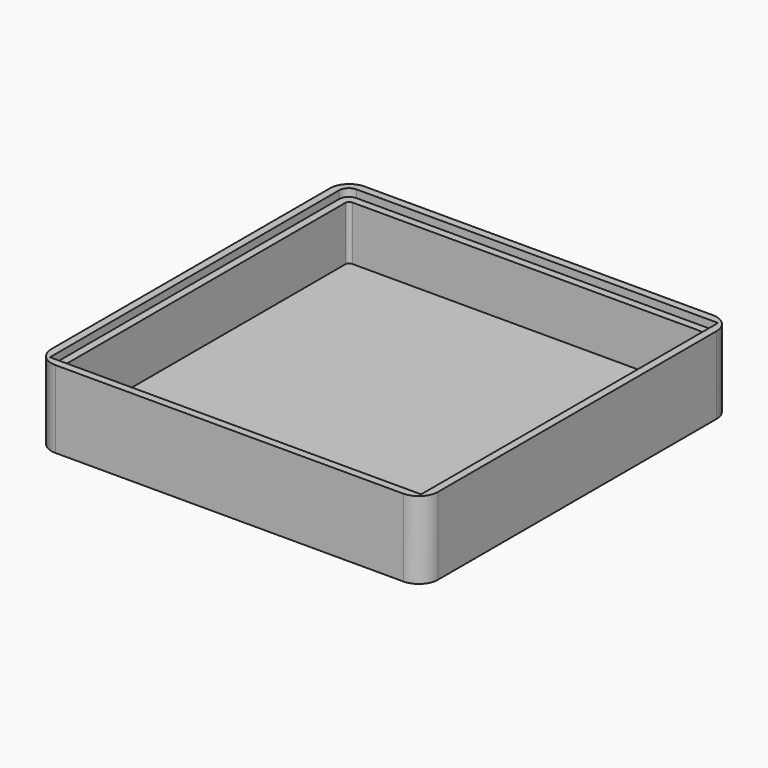
from build123d import *

# Parameters (mm, degrees)
F0_W     = 127
F0_H     = 127
F1_DEPTH = 25.4
F2_R     = 6.35
F3_T     = -5.08
F5_DEPTH = 2.54


with BuildPart() as f1:
    # F0 (on Top) → F1 (new body)
    with BuildSketch(Plane.XY):
        Rectangle(F0_W, F0_H)
    extrude(amount=F1_DEPTH)

    # F2
    f2_edges = [f1.edges().sort_by_distance(p)[0] for p in [
        (63.5, -63.5, 12.7),
        (63.5, 63.5, 12.7),
        (-63.5, 63.5, 12.7),
        (-63.5, -63.5, 12.7),
    ]]
    fillet(f2_edges, radius=F2_R)

    # F3
    f3_openings = [f1.faces().sort_by_distance(p)[0] for p in [
        (0, 0, 25.4),
    ]]
    offset(amount=F3_T, openings=f3_openings)

    # F4 (on face) → F5 (cut)
    with BuildSketch(Plane.XY.offset(25.4)):
        with BuildLine():
            Line((60.96, 60.96), (-57.785, 60.96))
            ThreePointArc((-57.785, 60.96), (-60.030064, 60.030064), (-60.96, 57.785))
            Line((-60.96, 57.785), (-60.96, -60.96))
            Line((-60.96, -60.96), (60.96, -60.96))
            Line((60.96, -60.96), (60.96, 60.96))
        make_face()
    extrude(amount=-F5_DEPTH, mode=Mode.SUBTRACT)


solid = f1.part
